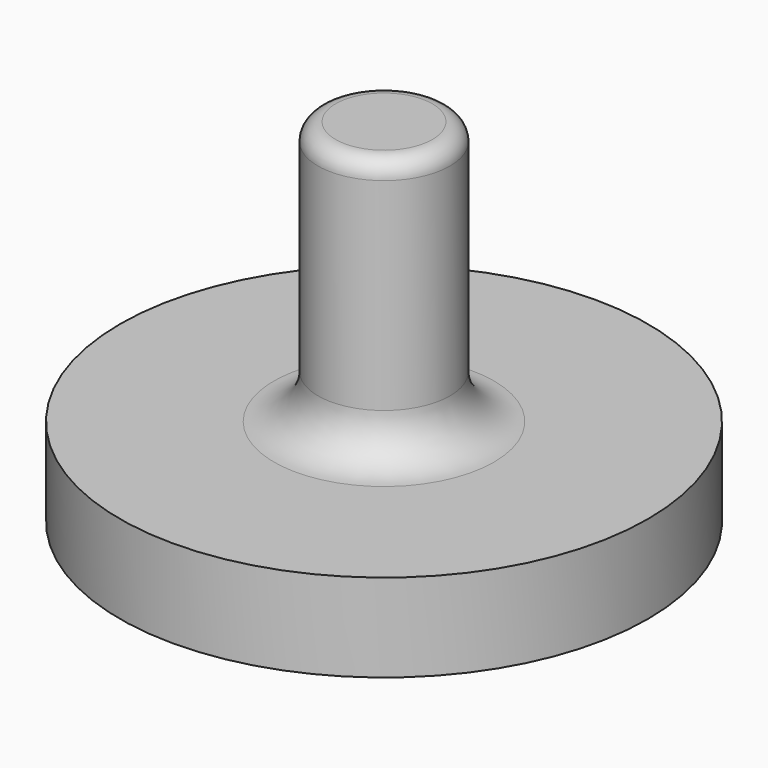
from build123d import *

# Parameters (mm, degrees)
SKETCH_R     = 3
PAD_DEPTH    = 1
SKETCH001_R  = 0.75
PAD001_DEPTH = 3
SKETCH002_R  = 1.5
POCKET_DEPTH = 0.8
FILLET_R     = 0.2
FILLET001_R  = 0.5
CHAMFER_SIZE = 0.5


with BuildPart() as part:
    # Sketch → Pad (new body)
    with BuildSketch(Plane.XY):
        Circle(SKETCH_R)
    extrude(amount=PAD_DEPTH)

    # Sketch001 (on Face3 of Pad) → Pad001 (join)
    with BuildSketch(Plane.XY.offset(1)):
        Circle(SKETCH001_R)
    extrude(amount=PAD001_DEPTH)

    # Sketch002 → Pocket (cut)
    with BuildSketch(Plane.XY):
        Circle(SKETCH002_R)
    extrude(amount=POCKET_DEPTH, mode=Mode.SUBTRACT)

    # Fillet
    fillet_edges = [part.edges().sort_by_distance(p)[0] for p in [
        (-0.75, 0, 4),
    ]]
    fillet(fillet_edges, radius=FILLET_R)

    # Fillet001
    fillet001_edges = [part.edges().sort_by_distance(p)[0] for p in [
        (-0.75, 0, 1),
    ]]
    fillet(fillet001_edges, radius=FILLET001_R)

    # Chamfer
    chamfer_edges = [part.edges().sort_by_distance(p)[0] for p in [
        (-1.5, 0, 0),
    ]]
    chamfer(chamfer_edges, length=CHAMFER_SIZE)


solid = part.part
